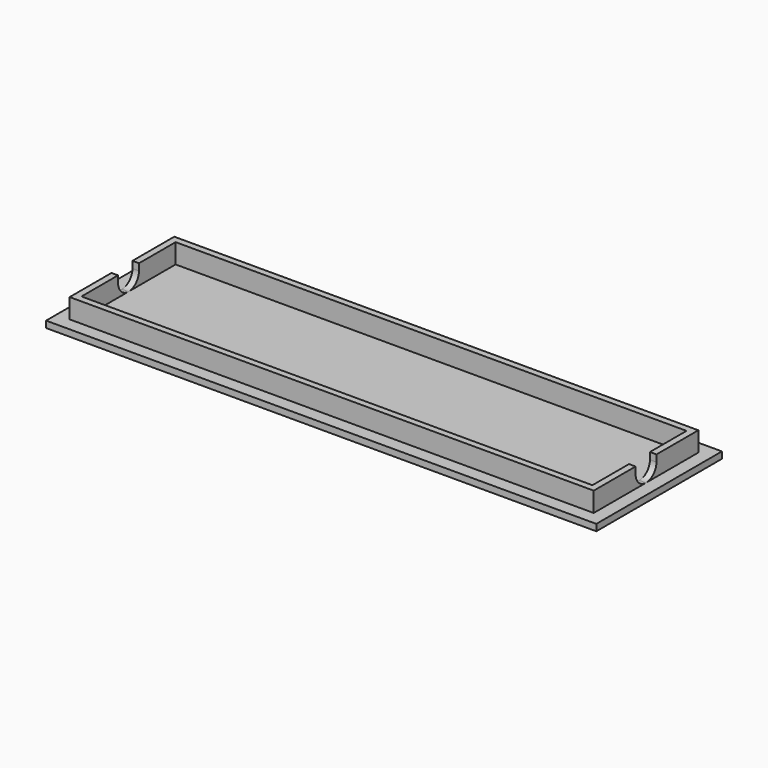
from build123d import *

# Parameters (mm, degrees)
F0_W     = 79.95
F0_H     = 19.95
F0_W_2   = 77.95
F0_H_2   = 17.95
F1_DEPTH = 4
F0_W_3   = 83.95
F0_H_3   = 23.95
F2_DEPTH = 1
F4_DEPTH = 100


with BuildPart() as f1:
    # F0 (on Top) → F1 (new body)
    with BuildSketch(Plane.XY):
        Rectangle(F0_W, F0_H)
        Rectangle(F0_W_2, F0_H_2, mode=Mode.SUBTRACT)
    extrude(amount=F1_DEPTH)

    # F0 (on Top) → F2 (join)
    with BuildSketch(Plane.XY):
        Rectangle(F0_W_3, F0_H_3)
        Rectangle(F0_W, F0_H, mode=Mode.SUBTRACT)
        Rectangle(F0_W_2, F0_H_2)
    extrude(amount=F2_DEPTH)

    # F3 (on face) → F4 (cut)
    with BuildSketch(Plane.YZ.offset(39.975)):
        with BuildLine():
            Line((-1.999556, 4), (-1.999556, 3.04214))
            Line((-1.999556, 3.04214), (-1.999556, 2.95786))
            ThreePointArc((-1.999556, 2.95786), (-1.399236, 1.570965), (0, 1))
            ThreePointArc((0, 1), (1.39965, 1.571372), (1.99958, 2.959021))
            Line((1.99958, 2.959021), (1.99958, 3.040979))
            Line((1.99958, 3.040979), (1.99958, 4))
            Line((1.99958, 4), (-1.999556, 4))
        make_face()
    extrude(amount=-F4_DEPTH, mode=Mode.SUBTRACT)


solid = f1.part
